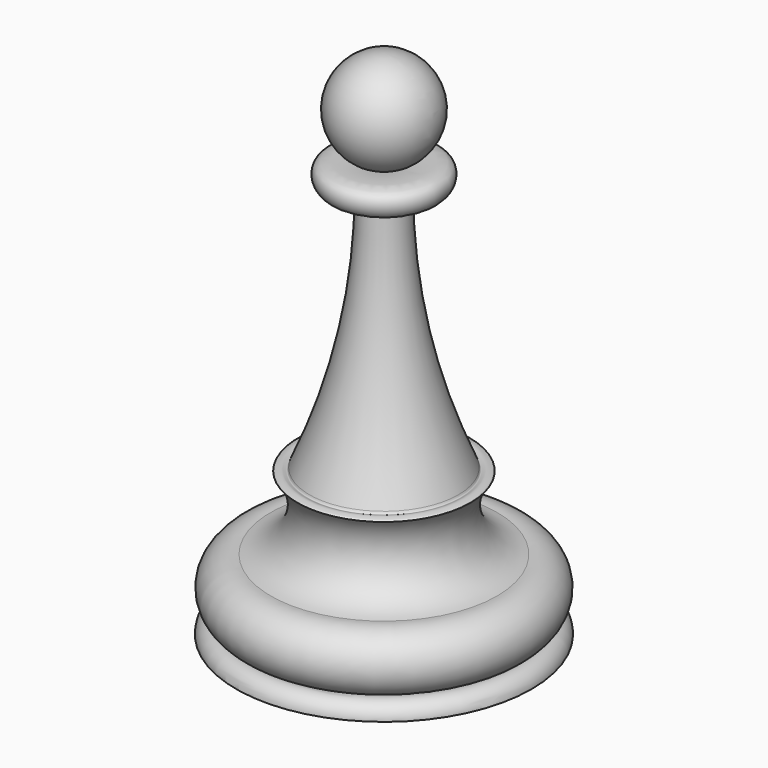
from build123d import *


with BuildPart() as f1:
    # F0 (on Front) → F1 (revolve)
    with BuildSketch(Plane.XZ):
        with BuildLine():
            Line((0, 26), (0, 0))
            Line((0, 0), (7.5, 0))
            ThreePointArc((7.5, 0), (7.1805915721, 0.6140772737), (6.494424272, 0.7051106631))
            ThreePointArc((6.494424272, 0.7051106631), (7.4359098551, 2.4892913887), (5.7499327285, 3.5970716438))
            ThreePointArc((5.7499327285, 3.5970716438), (3.9453219218, 5.0498485417), (4.3951137169, 7.3224831846))
            add(Edge.make_bspline(
                [(4.3951137169, 7.3224831846), (4.3861753825, 7.3414413603), (4.3653054145, 7.3857064888), (4.2512448556, 7.4154065205), (4.0156571331, 7.4657618185), (3.8360719725, 7.3205151636), (3.7979678006, 7.4301559965), (3.7803682499, 7.4807968922)],
                knots=[0, 0, 0, 0, 0.1344643022, 0.3139584572, 0.5802118712, 0.8061083056, 1, 1, 1, 1], degree=3))
            ThreePointArc((3.7803682499, 7.4807968922), (1.8106437757, 13.5784129869), (1.1654394912, 19.953712821))
            add(Edge.make_bspline(
                [(1.1654394912, 19.953712821), (1.324015153, 19.9187210267), (2.7698548896, 19.5208398123), (3.1684556571, 21.5690936559), (1.0412119451, 21.1208779413), (0.6139010709, 21.0765467871)],
                knots=[0, 0, 0, 0, 0.318404548, 0.6035189565, 1, 1, 1, 1], degree=3))
            ThreePointArc((0.6139010709, 21.0765467871), (2.4807894945, 23.8093274703), (0, 26))
        make_face()
    revolve(axis=Axis((0, 0, 13), (0, 0, 1)))


solid = f1.part
